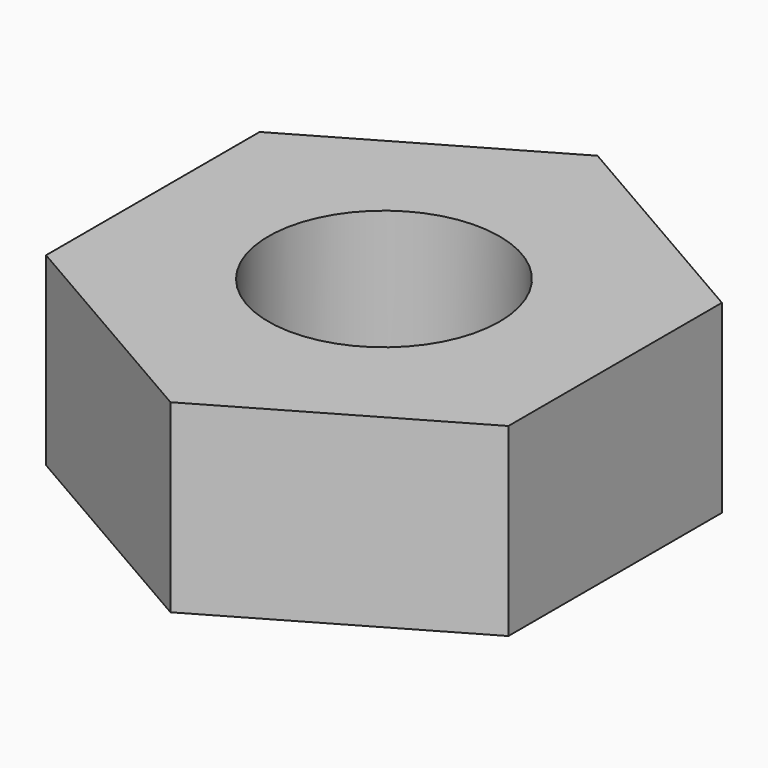
from build123d import *

# Parameters (mm, degrees)
SKETCH_R  = 1
PAD_DEPTH = 1.6


with BuildPart() as part:
    # Sketch → Pad (new body)
    with BuildSketch(Plane.XY):
        Polygon((2, 1.154701), (0, 2.309401), (-2, 1.154701), (-2, -1.154701), (0, -2.309401), (2, -1.154701), align=None)
        Circle(SKETCH_R, mode=Mode.SUBTRACT)
    extrude(amount=PAD_DEPTH)


solid = part.part
